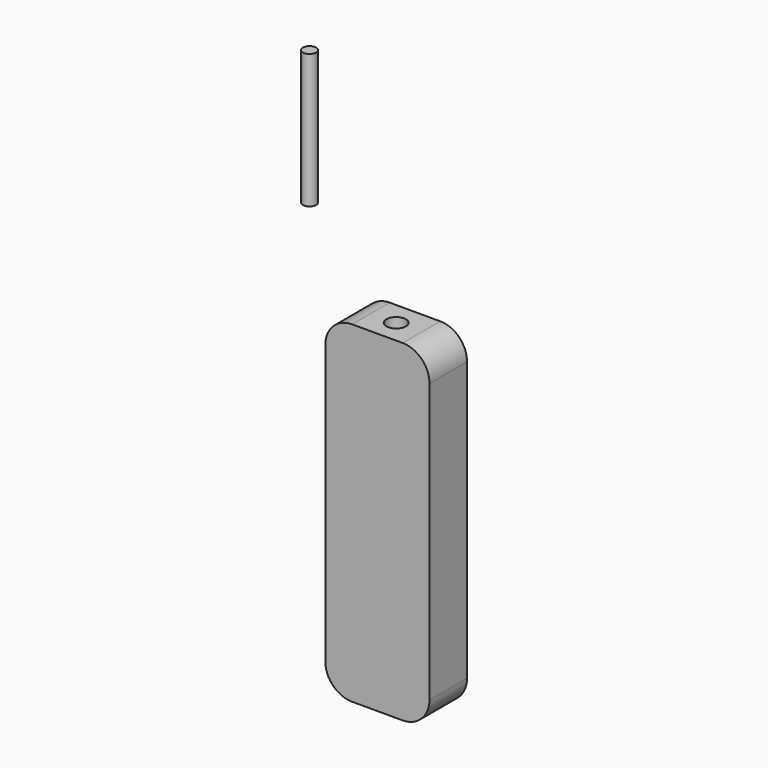
from build123d import *

# Parameters (mm, degrees)
F0_W     = 19.706898
F0_H     = 62.865
F1_DEPTH = 8.89
F2_R     = 5.08
F3_R     = 1.837876
F4_DEPTH = 12.7
F5_R     = 1.27
F6_DEPTH = 25.4


with BuildPart() as f1:
    # F0 (on Front) → F1 (new body)
    with BuildSketch(Plane.XZ):
        with Locations((1.182414, -8.178363)):
            Rectangle(F0_W, F0_H)
    extrude(amount=F1_DEPTH)

    # F2
    f2_edges = [f1.edges().sort_by_distance(p)[0] for p in [
        (-8.671035, -4.445, -39.610863),
        (11.035863, -4.445, -39.610863),
        (11.035863, -4.445, 23.254137),
        (-8.671035, -4.445, 23.254137),
    ]]
    fillet(f2_edges, radius=F2_R)

    # F3 (on face) → F4 (cut)
    with BuildSketch(Plane.XY.offset(23.254137)):
        with Locations((1.182414, -4.445)):
            Circle(F3_R)
    extrude(amount=-F4_DEPTH, mode=Mode.SUBTRACT)


with BuildPart() as f6:
    # F5 (on face) → F6 (new body)
    with BuildSketch(Plane.XY.offset(10.554137)):
        with Locations((-48.084829, 36.654826)):
            Circle(F5_R)
    extrude(amount=F6_DEPTH)


solid = Compound([f1.part, f6.part])
